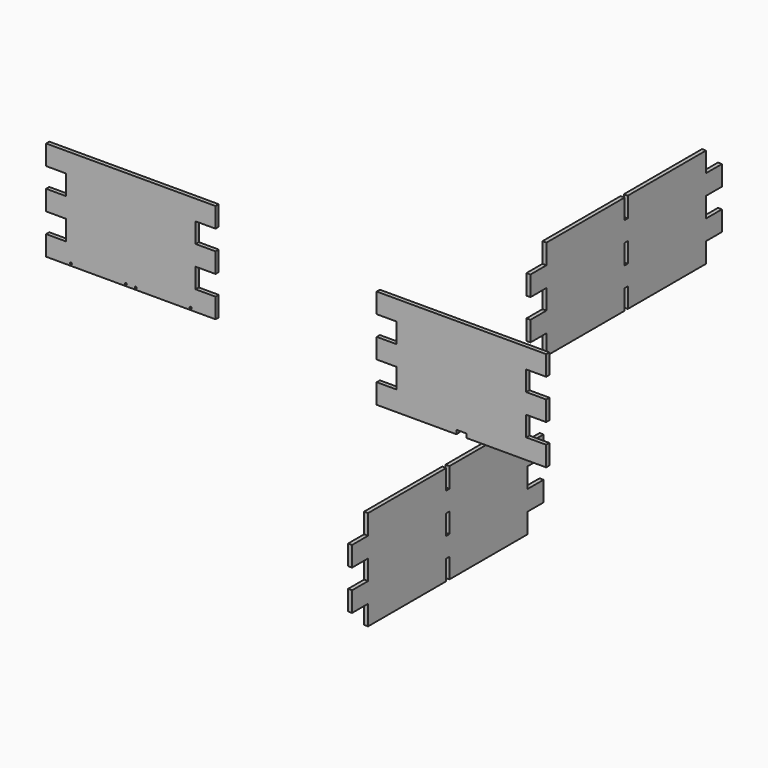
from build123d import *

# Parameters (mm, degrees)
F0_W     = 9.963726
F0_H     = 10
F0_W_2   = 10
F0_R     = 0.5
F0_W_3   = 5
F0_H_2   = 2
F1_DEPTH = 2
F2_R     = 0.5
F2_W     = 10
F2_H     = 10
F2_W_2   = 9.963725
F3_DEPTH = 2
F4_W     = 10
F4_H     = 10
F4_W_2   = 2
F5_DEPTH = 2
F6_W     = 10
F6_H     = 10
F6_W_2   = 2
F7_DEPTH = 2


with BuildPart() as f1:
    # F0 (on Front) → F1 (new body)
    with BuildSketch(Plane.XZ):
        with Locations((-193.636792, 55.369643)):
            Rectangle(F0_W, F0_H)
        with Locations((-193.636792, 35.369705)):
            Rectangle(F0_W, F0_H)
        with Locations((-193.636792, 15.369766)):
            Rectangle(F0_W, F0_H)
        with Locations((-118.654929, 55.369643)):
            Rectangle(F0_W_2, F0_H)
        with Locations((-118.654929, 35.369643)):
            Rectangle(F0_W_2, F0_H)
        with Locations((-118.654929, 15.369643)):
            Rectangle(F0_W_2, F0_H)
        Polygon((-158.654929, 60.369643), (-188.654929, 60.369643), (-188.654929, 50.369643), (-188.654929, 40.369705), (-188.654929, 30.369705), (-188.654929, 20.369766), (-188.654929, 10.369766), (-198.618655, 10.369766), (-198.618655, 10.369643), (-123.654929, 10.369643), (-123.654929, 20.369643), (-123.654929, 30.369643), (-123.654929, 40.369643), (-123.654929, 50.369643), (-123.654929, 60.369643), (-153.654929, 60.369643), (-153.654929, 58.369643), (-158.654929, 58.369643), align=None)
        with Locations((-186.154929, 11.369643)):
            Circle(F0_R, mode=Mode.SUBTRACT)
        with Locations((-158.654929, 11.369643)):
            Circle(F0_R, mode=Mode.SUBTRACT)
        with Locations((-153.654929, 11.369643)):
            Circle(F0_R, mode=Mode.SUBTRACT)
        with Locations((-126.154929, 11.369643)):
            Circle(F0_R, mode=Mode.SUBTRACT)
        with Locations((-156.154929, 59.369643)):
            Rectangle(F0_W_3, F0_H_2)
    extrude(amount=F1_DEPTH)


with BuildPart() as f3:
    # F2 (on Front) → F3 (new body)
    with BuildSketch(Plane.XZ):
        Polygon((7.115502, 48.908719), (-22.884498, 48.908719), (-22.884498, 38.908719), (-22.884498, 28.908781), (-22.884498, 18.908781), (-22.884498, 8.908843), (-22.884498, -1.091157), (-32.848223, -1.091157), (-32.848223, -1.091281), (7.115502, -1.091281), (7.115502, 0.908719), (12.115502, 0.908719), (12.115502, -1.091281), (42.115502, -1.091281), (42.115502, 8.908719), (42.115502, 18.908719), (42.115502, 28.908719), (42.115502, 38.908719), (42.115502, 48.908719), (12.115502, 48.908719), align=None)
        with Locations((-20.384498, 3.908719)):
            Circle(F2_R, mode=Mode.SUBTRACT)
        with Locations((7.115502, 3.908719)):
            Circle(F2_R, mode=Mode.SUBTRACT)
        with Locations((12.115502, 3.908719)):
            Circle(F2_R, mode=Mode.SUBTRACT)
        with Locations((39.615502, 3.908719)):
            Circle(F2_R, mode=Mode.SUBTRACT)
        with Locations((47.115502, 43.908719)):
            Rectangle(F2_W, F2_H)
        with Locations((47.115502, 23.908719)):
            Rectangle(F2_W, F2_H)
        with Locations((47.115502, 3.908719)):
            Rectangle(F2_W, F2_H)
        with Locations((-27.86636, 43.908719)):
            Rectangle(F2_W_2, F2_H)
        with Locations((-27.86636, 23.908781)):
            Rectangle(F2_W_2, F2_H)
        with Locations((-27.86636, 3.908843)):
            Rectangle(F2_W_2, F2_H)
        with Locations((-20.384498, 3.908719)):
            Circle(F2_R)
        with Locations((7.115502, 3.908719)):
            Circle(F2_R)
        with Locations((12.115502, 3.908719)):
            Circle(F2_R)
        with Locations((39.615502, 3.908719)):
            Circle(F2_R)
    extrude(amount=F3_DEPTH)


with BuildPart() as f5:
    # F4 (on Right) → F5 (new body)
    with BuildSketch(Plane.YZ):
        with Locations((-56, -32.62999)):
            Rectangle(F4_W, F4_H)
        with Locations((-56, -52.62999)):
            Rectangle(F4_W, F4_H)
        with Locations((54, -32.62999)):
            Rectangle(F4_W, F4_H)
        with Locations((54, -52.62999)):
            Rectangle(F4_W, F4_H)
        Polygon((-2, -17.62999), (-51, -17.62999), (-51, -27.62999), (-51, -37.62999), (-51, -47.62999), (-51, -57.62999), (-51, -67.62999), (-2, -67.62999), (-2, -57.62999), (0, -57.62999), (0, -67.62999), (49, -67.62999), (49, -57.62999), (49, -47.62999), (49, -37.62999), (49, -27.62999), (49, -17.62999), (0, -17.62999), (0, -27.62999), (-2, -27.62999), align=None)
        with Locations((-1, -42.62999)):
            Rectangle(F4_W_2, F4_H, mode=Mode.SUBTRACT)
    extrude(amount=F5_DEPTH)


with BuildPart() as f7:
    # F6 (on Right) → F7 (new body)
    with BuildSketch(Plane.YZ):
        with Locations((55.775179, 41.300289)):
            Rectangle(F6_W, F6_H)
        with Locations((55.775179, 21.300289)):
            Rectangle(F6_W, F6_H)
        with Locations((165.775179, 41.300289)):
            Rectangle(F6_W, F6_H)
        with Locations((165.775179, 21.300289)):
            Rectangle(F6_W, F6_H)
        Polygon((109.775179, 56.300289), (60.775179, 56.300289), (60.775179, 46.300289), (60.775179, 36.300289), (60.775179, 26.300289), (60.775179, 16.300289), (60.775179, 6.300289), (109.775179, 6.300289), (109.775179, 16.300289), (111.775179, 16.300289), (111.775179, 6.300289), (160.775179, 6.300289), (160.775179, 16.300289), (160.775179, 26.300289), (160.775179, 36.300289), (160.775179, 46.300289), (160.775179, 56.300289), (111.775179, 56.300289), (111.775179, 46.300289), (109.775179, 46.300289), align=None)
        with Locations((110.775179, 31.300289)):
            Rectangle(F6_W_2, F6_H, mode=Mode.SUBTRACT)
    extrude(amount=F7_DEPTH)


solid = Compound([f1.part, f3.part, f5.part, f7.part])
